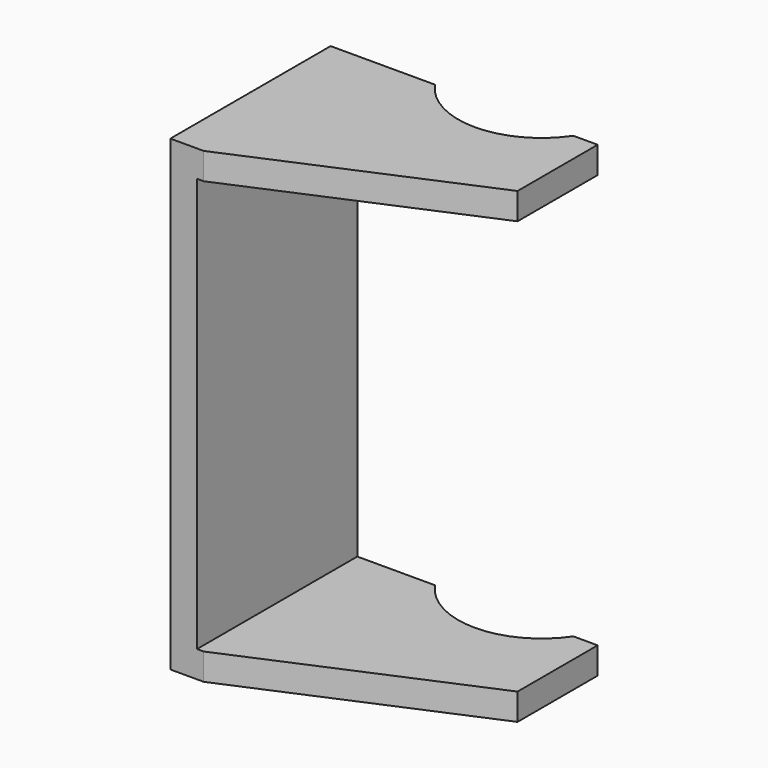
from build123d import *

# Parameters (mm, degrees)
F1_DEPTH = 35
F2_W     = 54.81187
F2_H     = 62
F3_DEPTH = 40


with BuildPart() as f1:
    # F0 (on Top) → F1 (new body, symmetric)
    with BuildSketch(Plane.XY):
        with BuildLine():
            Line((20, 0), (20, 15))
            Line((20, 15), (16.356158, 15))
            ThreePointArc((16.356158, 15), (6, 9.5), (-4.356158, 15))
            Line((-4.356158, 15), (-20, 15))
            Line((-20, 15), (-20, -15))
            Line((-20, -15), (-15, -15))
            Line((-15, -15), (20, 0))
        make_face()
    extrude(amount=F1_DEPTH, both=True)

    # F2 (on face) → F3 (cut)
    with BuildSketch(Plane(origin=(0, 15, 0), x_dir=(-1, 0, 0), z_dir=(0, 1, 0))):
        with Locations((-11.405935, 0)):
            Rectangle(F2_W, F2_H)
        with Locations((-11.405935, 0)):
            Rectangle(F2_W, F2_H)
    extrude(amount=-F3_DEPTH, mode=Mode.SUBTRACT)


solid = f1.part
